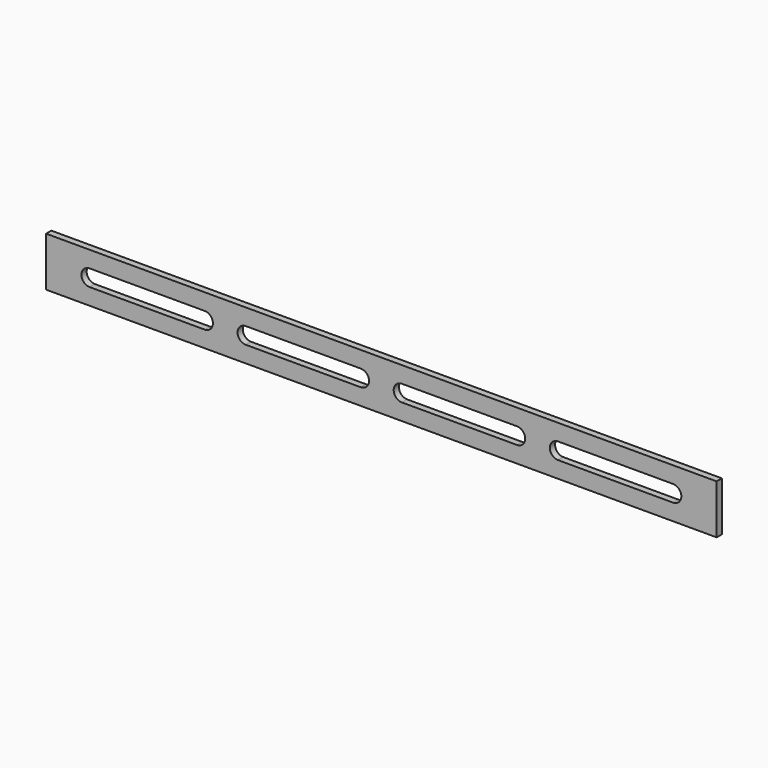
from build123d import *

# Parameters (mm, degrees)
F0_W     = 408
F0_H     = 30
F1_DEPTH = 4


with BuildPart() as f1:
    # F0 (on Front) → F1 (new body)
    with BuildSketch(Plane.XZ):
        with Locations((0, 15)):
            Rectangle(F0_W, F0_H)
        with BuildLine():
            ThreePointArc((-177.5, 10), (-182.5, 15), (-177.5, 20))
            Line((-177.5, 20), (-107.5, 20))
            ThreePointArc((-107.5, 20), (-102.5, 15), (-107.5, 10))
            Line((-107.5, 10), (-177.5, 10))
        make_face(mode=Mode.SUBTRACT)
        with BuildLine():
            ThreePointArc((-82.5, 10), (-87.5, 15), (-82.5, 20))
            Line((-82.5, 20), (-12.5, 20))
            ThreePointArc((-12.5, 20), (-7.5, 15), (-12.5, 10))
            Line((-12.5, 10), (-82.5, 10))
        make_face(mode=Mode.SUBTRACT)
        with BuildLine():
            ThreePointArc((12.5, 10), (7.5, 15), (12.5, 20))
            Line((12.5, 20), (82.5, 20))
            ThreePointArc((82.5, 20), (87.5, 15), (82.5, 10))
            Line((82.5, 10), (12.5, 10))
        make_face(mode=Mode.SUBTRACT)
        with BuildLine():
            ThreePointArc((107.5, 10), (102.5, 15), (107.5, 20))
            Line((107.5, 20), (177.5, 20))
            ThreePointArc((177.5, 20), (182.5, 15), (177.5, 10))
            Line((177.5, 10), (107.5, 10))
        make_face(mode=Mode.SUBTRACT)
    extrude(amount=F1_DEPTH)


solid = f1.part
